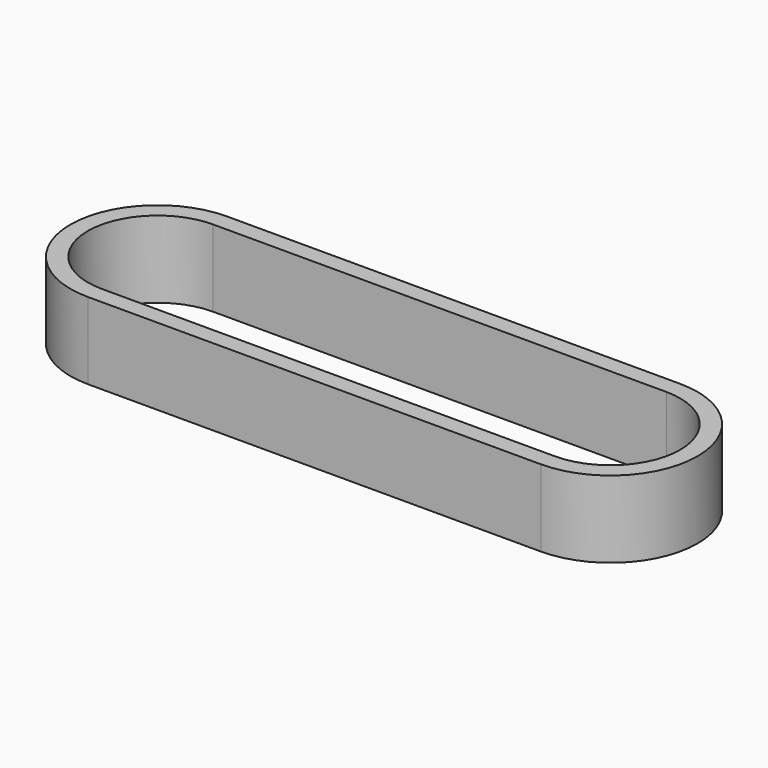
from build123d import *

# Parameters (mm, degrees)
F1_DEPTH = 7


with BuildPart() as f1:
    # F0 (on Top) → F1 (new body)
    with BuildSketch(Plane.XY):
        with BuildLine():
            Line((41.277483, 14.2875), (0, 14.2875))
            ThreePointArc((0, 14.2875), (-7.9375, 6.35), (0, -1.5875))
            Line((0, -1.5875), (41.277483, -1.5875))
            ThreePointArc((41.277483, -1.5875), (49.214983, 6.35), (41.277483, 14.2875))
        make_face()
        with BuildLine():
            Line((41.277483, 0), (0, 0))
            ThreePointArc((0, 0), (-6.35, 6.35), (0, 12.7))
            Line((0, 12.7), (41.277483, 12.7))
            ThreePointArc((41.277483, 12.7), (47.627483, 6.35), (41.277483, 0))
        make_face(mode=Mode.SUBTRACT)
    extrude(amount=F1_DEPTH)


solid = f1.part
